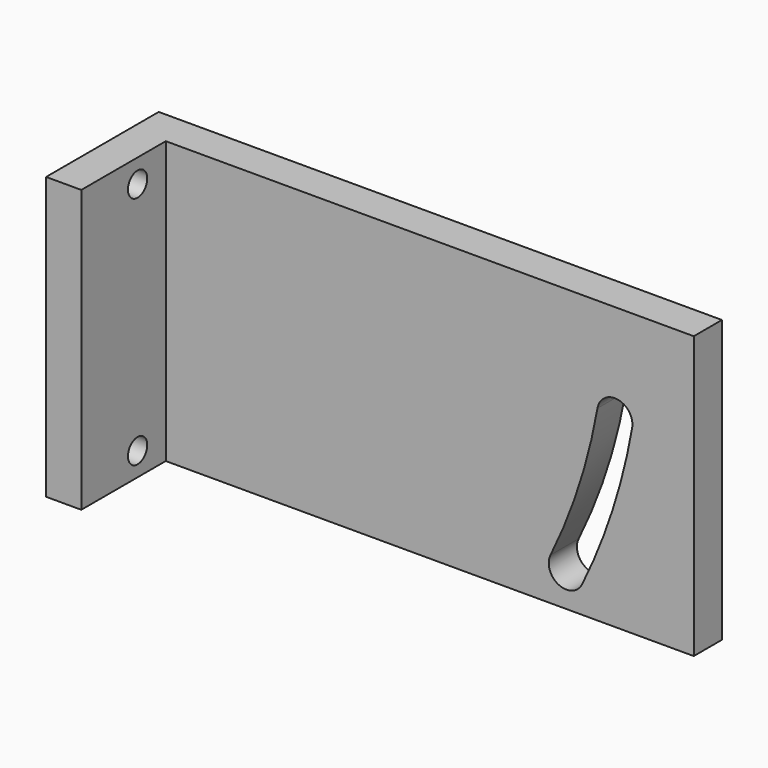
from build123d import *

# Parameters (mm, degrees)
F0_W     = 152.4
F0_H     = 76.2
F1_DEPTH = 9.525
F2_W     = 9.525
F2_H     = 76.2
F3_DEPTH = 28.575
F5_D     = 6.5278


with BuildPart() as f1:
    # F0 (on Front) → F1 (new body)
    with BuildSketch(Plane.XZ):
        with Locations((76.2, 38.1)):
            Rectangle(F0_W, F0_H)
        with BuildLine():
            ThreePointArc((135.724848, 48.909018), (130.42042, 27.634117), (122.206719, 7.304495))
            ThreePointArc((122.206719, 7.304495), (115.83847, 5.111731), (113.645706, 11.47998))
            ThreePointArc((113.645706, 11.47998), (121.361606, 30.577503), (126.344555, 50.563017))
            ThreePointArc((126.344555, 50.563017), (131.861701, 54.426165), (135.724848, 48.909018))
        make_face(mode=Mode.SUBTRACT)
    extrude(amount=F1_DEPTH)

    # F2 (on face) → F3 (join)
    with BuildSketch(Plane.XZ.offset(9.525)):
        with Locations((4.7625, 38.1)):
            Rectangle(F2_W, F2_H)
    extrude(amount=F3_DEPTH)

    # F5 (through all)
    with Locations(Plane(origin=(0, 0, 0), x_dir=(0, -1, 0), z_dir=(-1, 0, 0))):
        with Locations((19.05, 69.85), (19.05, 6.35)):
            Hole(F5_D / 2)


solid = f1.part
